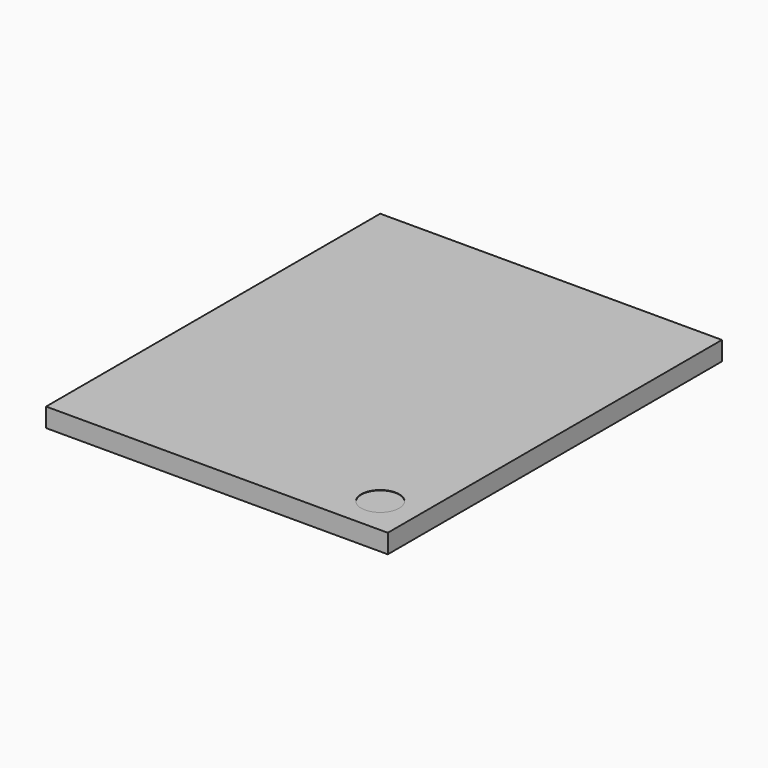
from build123d import *

# Parameters (mm, degrees)
CYLINDER030_R          = 0.5
CYLINDER030_DEPTH      = 0.01
BOX075_W               = 9
BOX075_H               = 11
BOX075_DEPTH           = 0.5
CUT023_PLACEMENT_ANGLE = 180


with BuildPart() as cylinder030:
    # Cylinder030 → Cylinder030 (new body)
    with BuildSketch(Plane(origin=(1, 10, 0.49), x_dir=(1, 0, 0), z_dir=(0, 0, 1))):
        Circle(CYLINDER030_R)
    extrude(amount=CYLINDER030_DEPTH)


with BuildPart() as obj1:
    # Box075 → Box075 (new body)
    with BuildSketch(Plane.XY):
        with Locations((4.5, 5.5)):
            Rectangle(BOX075_W, BOX075_H)
    extrude(amount=BOX075_DEPTH)

    # Cut023: cut Cylinder030
    add(cylinder030.part, mode=Mode.SUBTRACT)


with BuildPart() as obj1_1:
    # Cut023 placement: moved
    add(obj1.part.moved(Location((4.24, 20.63, 22.3))).rotate(Axis((4.24, 20.63, 22.3), (0, 0, 1)), CUT023_PLACEMENT_ANGLE))


solid = obj1_1.part
